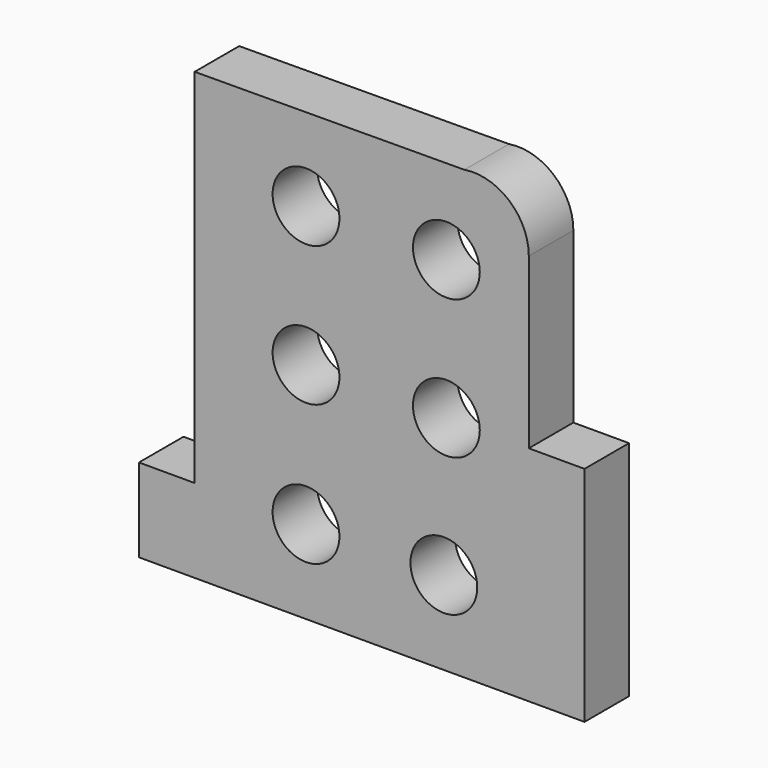
from build123d import *

# Parameters (mm, degrees)
F0_R     = 6
F1_DEPTH = 10


with BuildPart() as f1:
    # F0 (on Front) → F1 (new body)
    with BuildSketch(Plane.XZ):
        with BuildLine():
            Line((0, 15), (0, 0))
            Line((0, 0), (30, 0))
            Line((30, 0), (55, 0))
            Line((55, 0), (80, 0))
            Line((80, 0), (80, 40))
            Line((80, 40), (70, 40))
            Line((70, 40), (70, 70.39143))
            ThreePointArc((70, 70.39143), (66.491163, 77.998322), (58.42704, 80.266945))
            Line((58.42704, 80.266945), (10, 80))
            Line((10, 80), (10, 15))
            Line((10, 15), (0, 15))
        make_face()
        with Locations((30, 15)):
            Circle(F0_R, mode=Mode.SUBTRACT)
        with Locations((30, 40.1715)):
            Circle(F0_R, mode=Mode.SUBTRACT)
        with Locations((54.743763, 15.001313)):
            Circle(F0_R, mode=Mode.SUBTRACT)
        with Locations((55.198635, 39.999507)):
            Circle(F0_R, mode=Mode.SUBTRACT)
        with Locations((30.001313, 65.256237)):
            Circle(F0_R, mode=Mode.SUBTRACT)
        with Locations((55.198635, 65)):
            Circle(F0_R, mode=Mode.SUBTRACT)
    extrude(amount=F1_DEPTH)


solid = f1.part
